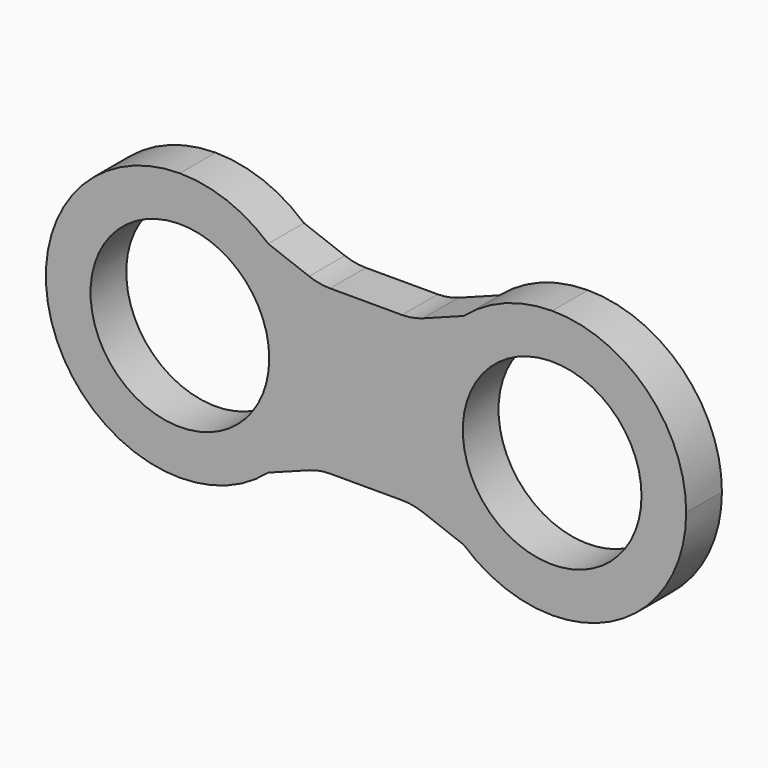
from build123d import *

# Parameters (mm, degrees)
F1_DEPTH = 19.05
F2_R     = 38.1
F3_DEPTH = 25.4


with BuildPart() as f1:
    # F0 (on Front) → F1 (new body)
    with BuildSketch(Plane.XZ):
        with BuildLine():
            Line((20.027097595, 36.4074036121), (2.6105293283, 42.9636023111))
            ThreePointArc((2.6105293283, 42.9636023111), (16.9814393634, 23.5834144733), (22.0743066938, 0))
            ThreePointArc((22.0743066938, 0), (16.9814393634, -23.5834144733), (2.6105293283, -42.9636023111))
            Line((2.6105293283, -42.9636023111), (20.027097595, -36.4074036121))
            ThreePointArc((20.027097595, -36.4074036121), (24.4278254251, -35.189367606), (28.975523916, -34.7789341976))
            Line((28.975523916, -34.7789341976), (59.6230894717, -34.7789341976))
            ThreePointArc((59.6230894717, -34.7789341976), (64.1707879626, -35.189367606), (68.5715157927, -36.4074036121))
            Line((68.5715157927, -36.4074036121), (85.9880840594, -42.9636023111))
            ThreePointArc((85.9880840594, -42.9636023111), (66.5243066938, 0), (85.9880840594, 42.9636023111))
            Line((85.9880840594, 42.9636023111), (68.5715157927, 36.4074036121))
            ThreePointArc((68.5715157927, 36.4074036121), (64.1707879626, 35.189367606), (59.6230894717, 34.7789341976))
            Line((59.6230894717, 34.7789341976), (28.975523916, 34.7789341976))
            ThreePointArc((28.975523916, 34.7789341976), (24.4278254251, 35.189367606), (20.027097595, 36.4074036121))
        make_face()
        with BuildLine():
            ThreePointArc((2.6105293283, 42.9636023111), (-14.941734084, 53.4859438174), (-35.0756933062, 57.15))
            Line((-35.0756933062, 57.15), (2.6105293283, 42.9636023111))
        make_face()
        with BuildLine():
            Line((123.6743066938, 57.15), (85.9880840594, 42.9636023111))
            ThreePointArc((85.9880840594, 42.9636023111), (66.5243066938, 0), (85.9880840594, -42.9636023111))
            Line((85.9880840594, -42.9636023111), (123.6743066938, -57.15))
            ThreePointArc((123.6743066938, -57.15), (164.0854592386, -40.4111525448), (180.8243066938, 0))
            ThreePointArc((180.8243066938, 0), (164.0854592386, 40.4111525448), (123.6743066938, 57.15))
        make_face()
        with BuildLine():
            ThreePointArc((123.6743066938, 57.15), (103.5403474717, 53.4859438174), (85.9880840594, 42.9636023111))
            Line((85.9880840594, 42.9636023111), (123.6743066938, 57.15))
        make_face()
        with BuildLine():
            Line((2.6105293283, 42.9636023111), (-35.0756933062, 57.15))
            ThreePointArc((-35.0756933062, 57.15), (-92.2256933062, 0), (-35.0756933062, -57.15))
            Line((-35.0756933062, -57.15), (2.6105293283, -42.9636023111))
            ThreePointArc((2.6105293283, -42.9636023111), (16.9814393634, -23.5834144733), (22.0743066938, 0))
            ThreePointArc((22.0743066938, 0), (16.9814393634, 23.5834144733), (2.6105293283, 42.9636023111))
        make_face()
        with BuildLine():
            Line((2.6105293283, -42.9636023111), (-35.0756933062, -57.15))
            ThreePointArc((-35.0756933062, -57.15), (-14.941734084, -53.4859438174), (2.6105293283, -42.9636023111))
        make_face()
        with BuildLine():
            Line((123.6743066938, -57.15), (85.9880840594, -42.9636023111))
            ThreePointArc((85.9880840594, -42.9636023111), (103.5403474717, -53.4859438174), (123.6743066938, -57.15))
        make_face()
    extrude(amount=F1_DEPTH)

    # F2 (on face) → F3 (cut)
    with BuildSketch(Plane.XZ.offset(19.05)):
        with Locations((-35.0756933062, 0)):
            Circle(F2_R)
        with Locations((123.6743066938, 0)):
            Circle(F2_R)
    extrude(amount=-F3_DEPTH, mode=Mode.SUBTRACT)


solid = f1.part
